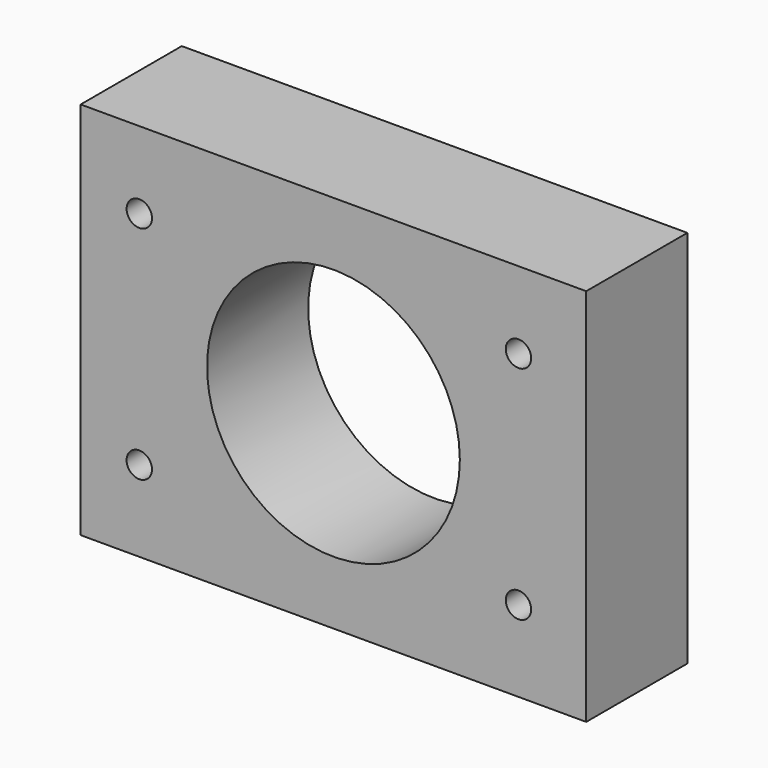
from build123d import *

# Parameters (mm, degrees)
F0_W     = 101.6
F0_H     = 76.2
F0_R     = 25.4
F1_DEPTH = 25.4
F3_D     = 5.1054


with BuildPart() as f1:
    # F0 (on Front) → F1 (new body)
    with BuildSketch(Plane.XZ):
        Rectangle(F0_W, F0_H)
        Circle(F0_R, mode=Mode.SUBTRACT)
    extrude(amount=F1_DEPTH)

    # F3 (through all)
    with Locations(Plane.XZ.offset(25.4)):
        with Locations((-39.0160377379, 22.6308889994), (-39.0160377379, -21.8191110006), (37.1839660461, -21.8191110006), (37.1839622621, 22.6308889994)):
            Hole(F3_D / 2)


solid = f1.part
